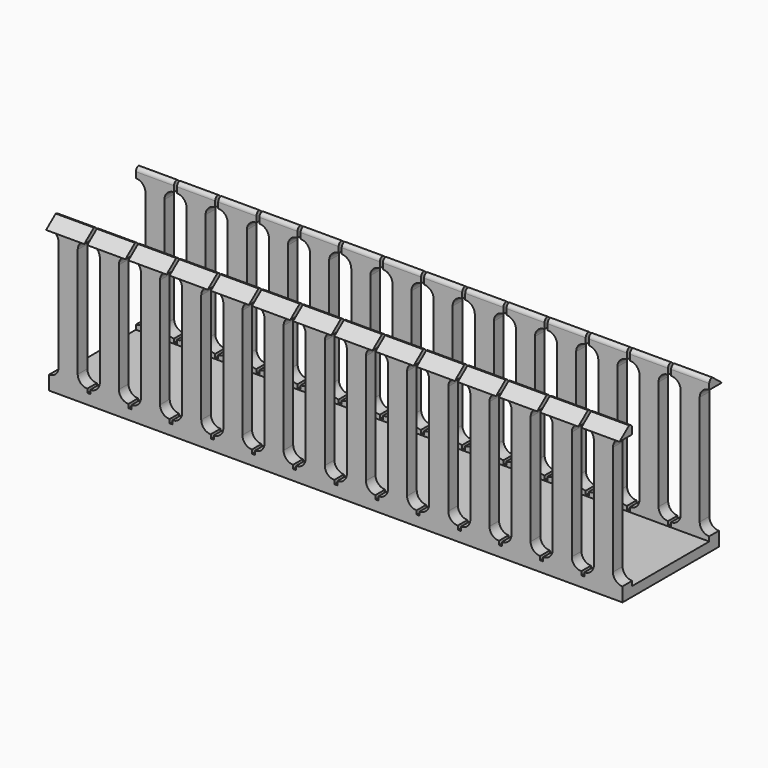
from build123d import *

# Parameters (mm, degrees)
F1_DEPTH  = 21.336
F2_W      = 32.1056
F2_H      = 44.45
F2_H_2    = 3.175
F3_DEPTH  = 191.009
F5_R      = 1.27
F6_R      = 1.27
F7_W      = 1.27
F7_H      = 47.625
F8_DEPTH  = 187.834
F9_W      = 1.27
F9_H      = 47.625
F10_DEPTH = 3.176
F12_DEPTH = 191.009


with BuildPart() as f1:
    # F0 (on Front) → F1 (new body, symmetric)
    with BuildSketch(Plane.XZ):
        with BuildLine():
            Line((-95.504, 4.699), (-95.504, 0))
            Line((-95.504, 0), (95.504, 0))
            Line((95.504, 0), (95.504, 4.699))
            ThreePointArc((95.504, 4.699), (93.2589359697, 5.6289359697), (92.329, 7.874))
            Line((92.329, 7.874), (92.329, 44.45))
            ThreePointArc((92.329, 44.45), (93.2589359697, 46.6950640303), (95.504, 47.625))
            Line((95.504, 47.625), (95.504, 50.8))
            Line((95.504, 50.8), (82.804, 50.8))
            Line((82.804, 50.8), (82.804, 47.625))
            ThreePointArc((82.804, 47.625), (85.0490640303, 46.6950640303), (85.979, 44.45))
            Line((85.979, 44.45), (85.979, 7.874))
            ThreePointArc((85.979, 7.874), (85.0490640303, 5.6289359697), (82.804, 4.699))
            Line((82.804, 4.699), (82.804, 3.429))
            Line((82.804, 3.429), (81.788, 3.429))
            Line((81.788, 3.429), (81.788, 4.699))
            ThreePointArc((81.788, 4.699), (79.5429359697, 5.6289359697), (78.613, 7.874))
            Line((78.613, 7.874), (78.613, 44.45))
            ThreePointArc((78.613, 44.45), (79.5429359697, 46.6950640303), (81.788, 47.625))
            Line((81.788, 47.625), (81.788, 50.8))
            Line((81.788, 50.8), (69.088, 50.8))
            Line((69.088, 50.8), (69.088, 47.625))
            ThreePointArc((69.088, 47.625), (71.3330640303, 46.6950640303), (72.263, 44.45))
            Line((72.263, 44.45), (72.263, 7.874))
            ThreePointArc((72.263, 7.874), (71.3330640303, 5.6289359697), (69.088, 4.699))
            Line((69.088, 4.699), (69.088, 3.429))
            Line((69.088, 3.429), (68.072, 3.429))
            Line((68.072, 3.429), (68.072, 4.699))
            ThreePointArc((68.072, 4.699), (65.8269359697, 5.6289359697), (64.897, 7.874))
            Line((64.897, 7.874), (64.897, 44.45))
            ThreePointArc((64.897, 44.45), (65.8269359697, 46.6950640303), (68.072, 47.625))
            Line((68.072, 47.625), (68.072, 50.8))
            Line((68.072, 50.8), (55.372, 50.8))
            Line((55.372, 50.8), (55.372, 47.625))
            ThreePointArc((55.372, 47.625), (57.6170640303, 46.6950640303), (58.547, 44.45))
            Line((58.547, 44.45), (58.547, 7.874))
            ThreePointArc((58.547, 7.874), (57.6170640303, 5.6289359697), (55.372, 4.699))
            Line((55.372, 4.699), (55.372, 3.429))
            Line((55.372, 3.429), (54.356, 3.429))
            Line((54.356, 3.429), (54.356, 4.699))
            ThreePointArc((54.356, 4.699), (52.1109359697, 5.6289359697), (51.181, 7.874))
            Line((51.181, 7.874), (51.181, 44.45))
            ThreePointArc((51.181, 44.45), (52.1109359697, 46.6950640303), (54.356, 47.625))
            Line((54.356, 47.625), (54.356, 50.8))
            Line((54.356, 50.8), (48.006, 50.8))
            Line((48.006, 50.8), (41.656, 50.8))
            Line((41.656, 50.8), (41.656, 47.625))
            ThreePointArc((41.656, 47.625), (43.9010640303, 46.6950640303), (44.831, 44.45))
            Line((44.831, 44.45), (44.831, 7.874))
            ThreePointArc((44.831, 7.874), (43.9010640303, 5.6289359697), (41.656, 4.699))
            Line((41.656, 4.699), (41.656, 3.429))
            Line((41.656, 3.429), (40.64, 3.429))
            Line((40.64, 3.429), (40.64, 4.699))
            ThreePointArc((40.64, 4.699), (38.3949359697, 5.6289359697), (37.465, 7.874))
            Line((37.465, 7.874), (37.465, 44.45))
            ThreePointArc((37.465, 44.45), (38.3949359697, 46.6950640303), (40.64, 47.625))
            Line((40.64, 47.625), (40.64, 50.8))
            Line((40.64, 50.8), (34.29, 50.8))
            Line((34.29, 50.8), (27.94, 50.8))
            Line((27.94, 50.8), (27.94, 47.625))
            ThreePointArc((27.94, 47.625), (30.1850640303, 46.6950640303), (31.115, 44.45))
            Line((31.115, 44.45), (31.115, 7.874))
            ThreePointArc((31.115, 7.874), (30.1850640303, 5.6289359697), (27.94, 4.699))
            Line((27.94, 4.699), (27.94, 3.429))
            Line((27.94, 3.429), (26.924, 3.429))
            Line((26.924, 3.429), (26.924, 4.699))
            ThreePointArc((26.924, 4.699), (24.6789359697, 5.6289359697), (23.749, 7.874))
            Line((23.749, 7.874), (23.749, 44.45))
            ThreePointArc((23.749, 44.45), (24.6789359697, 46.6950640303), (26.924, 47.625))
            Line((26.924, 47.625), (26.924, 50.8))
            Line((26.924, 50.8), (14.224, 50.8))
            Line((14.224, 50.8), (14.224, 47.625))
            ThreePointArc((14.224, 47.625), (16.4690640303, 46.6950640303), (17.399, 44.45))
            Line((17.399, 44.45), (17.399, 7.874))
            ThreePointArc((17.399, 7.874), (16.4690640303, 5.6289359697), (14.224, 4.699))
            Line((14.224, 4.699), (14.224, 3.429))
            Line((14.224, 3.429), (13.208, 3.429))
            Line((13.208, 3.429), (13.208, 4.699))
            ThreePointArc((13.208, 4.699), (10.9629359697, 5.6289359697), (10.033, 7.874))
            Line((10.033, 7.874), (10.033, 44.45))
            ThreePointArc((10.033, 44.45), (10.9629359697, 46.6950640303), (13.208, 47.625))
            Line((13.208, 47.625), (13.208, 50.8))
            Line((13.208, 50.8), (0.508, 50.8))
            Line((0.508, 50.8), (0.508, 47.625))
            ThreePointArc((0.508, 47.625), (2.7530640303, 46.6950640303), (3.683, 44.45))
            Line((3.683, 44.45), (3.683, 7.874))
            ThreePointArc((3.683, 7.874), (2.7530640303, 5.6289359697), (0.508, 4.699))
            Line((0.508, 4.699), (0.508, 3.429))
            Line((0.508, 3.429), (-0.508, 3.429))
            Line((-0.508, 3.429), (-0.508, 4.699))
            ThreePointArc((-0.508, 4.699), (-2.7530640303, 5.6289359697), (-3.683, 7.874))
            Line((-3.683, 7.874), (-3.683, 44.45))
            ThreePointArc((-3.683, 44.45), (-2.7530640303, 46.6950640303), (-0.508, 47.625))
            Line((-0.508, 47.625), (-0.508, 50.8))
            Line((-0.508, 50.8), (-13.208, 50.8))
            Line((-13.208, 50.8), (-13.208, 47.625))
            ThreePointArc((-13.208, 47.625), (-10.9629359697, 46.6950640303), (-10.033, 44.45))
            Line((-10.033, 44.45), (-10.033, 7.874))
            ThreePointArc((-10.033, 7.874), (-10.9629359697, 5.6289359697), (-13.208, 4.699))
            Line((-13.208, 4.699), (-13.208, 3.429))
            Line((-13.208, 3.429), (-14.224, 3.429))
            Line((-14.224, 3.429), (-14.224, 4.699))
            ThreePointArc((-14.224, 4.699), (-16.4690640303, 5.6289359697), (-17.399, 7.874))
            Line((-17.399, 7.874), (-17.399, 44.45))
            ThreePointArc((-17.399, 44.45), (-16.4690640303, 46.6950640303), (-14.224, 47.625))
            Line((-14.224, 47.625), (-14.224, 50.8))
            Line((-14.224, 50.8), (-26.924, 50.8))
            Line((-26.924, 50.8), (-26.924, 47.625))
            ThreePointArc((-26.924, 47.625), (-24.6789359697, 46.6950640303), (-23.749, 44.45))
            Line((-23.749, 44.45), (-23.749, 7.874))
            ThreePointArc((-23.749, 7.874), (-24.6789359697, 5.6289359697), (-26.924, 4.699))
            Line((-26.924, 4.699), (-26.924, 3.429))
            Line((-26.924, 3.429), (-27.94, 3.429))
            Line((-27.94, 3.429), (-27.94, 4.699))
            ThreePointArc((-27.94, 4.699), (-30.1850640303, 5.6289359697), (-31.115, 7.874))
            Line((-31.115, 7.874), (-31.115, 44.45))
            ThreePointArc((-31.115, 44.45), (-30.1850640303, 46.6950640303), (-27.94, 47.625))
            Line((-27.94, 47.625), (-27.94, 50.8))
            Line((-27.94, 50.8), (-40.64, 50.8))
            Line((-40.64, 50.8), (-40.64, 47.625))
            ThreePointArc((-40.64, 47.625), (-38.3949359697, 46.6950640303), (-37.465, 44.45))
            Line((-37.465, 44.45), (-37.465, 7.874))
            ThreePointArc((-37.465, 7.874), (-38.3949359697, 5.6289359697), (-40.64, 4.699))
            Line((-40.64, 4.699), (-40.64, 3.429))
            Line((-40.64, 3.429), (-41.656, 3.429))
            Line((-41.656, 3.429), (-41.656, 4.699))
            ThreePointArc((-41.656, 4.699), (-43.9010640303, 5.6289359697), (-44.831, 7.874))
            Line((-44.831, 7.874), (-44.831, 44.45))
            ThreePointArc((-44.831, 44.45), (-43.9010640303, 46.6950640303), (-41.656, 47.625))
            Line((-41.656, 47.625), (-41.656, 50.8))
            Line((-41.656, 50.8), (-48.006, 50.8))
            Line((-48.006, 50.8), (-54.356, 50.8))
            Line((-54.356, 50.8), (-54.356, 47.625))
            ThreePointArc((-54.356, 47.625), (-52.1109359697, 46.6950640303), (-51.181, 44.45))
            Line((-51.181, 44.45), (-51.181, 7.874))
            ThreePointArc((-51.181, 7.874), (-52.1109359697, 5.6289359697), (-54.356, 4.699))
            Line((-54.356, 4.699), (-54.356, 3.429))
            Line((-54.356, 3.429), (-55.372, 3.429))
            Line((-55.372, 3.429), (-55.372, 4.699))
            ThreePointArc((-55.372, 4.699), (-57.6170640303, 5.6289359697), (-58.547, 7.874))
            Line((-58.547, 7.874), (-58.547, 44.45))
            ThreePointArc((-58.547, 44.45), (-57.6170640303, 46.6950640303), (-55.372, 47.625))
            Line((-55.372, 47.625), (-55.372, 50.8))
            Line((-55.372, 50.8), (-68.072, 50.8))
            Line((-68.072, 50.8), (-68.072, 47.625))
            ThreePointArc((-68.072, 47.625), (-65.8269359697, 46.6950640303), (-64.897, 44.45))
            Line((-64.897, 44.45), (-64.897, 7.874))
            ThreePointArc((-64.897, 7.874), (-65.8269359697, 5.6289359697), (-68.072, 4.699))
            Line((-68.072, 4.699), (-68.072, 3.429))
            Line((-68.072, 3.429), (-69.088, 3.429))
            Line((-69.088, 3.429), (-69.088, 4.699))
            ThreePointArc((-69.088, 4.699), (-71.3330640303, 5.6289359697), (-72.263, 7.874))
            Line((-72.263, 7.874), (-72.263, 44.45))
            ThreePointArc((-72.263, 44.45), (-71.3330640303, 46.6950640303), (-69.088, 47.625))
            Line((-69.088, 47.625), (-69.088, 50.8))
            Line((-69.088, 50.8), (-81.788, 50.8))
            Line((-81.788, 50.8), (-81.788, 47.625))
            ThreePointArc((-81.788, 47.625), (-79.5429359697, 46.6950640303), (-78.613, 44.45))
            Line((-78.613, 44.45), (-78.613, 7.874))
            ThreePointArc((-78.613, 7.874), (-79.5429359697, 5.6289359697), (-81.788, 4.699))
            Line((-81.788, 4.699), (-81.788, 3.429))
            Line((-81.788, 3.429), (-82.804, 3.429))
            Line((-82.804, 3.429), (-82.804, 4.699))
            ThreePointArc((-82.804, 4.699), (-85.0490640303, 5.6289359697), (-85.979, 7.874))
            Line((-85.979, 7.874), (-85.979, 44.45))
            ThreePointArc((-85.979, 44.45), (-85.0490640303, 46.6950640303), (-82.804, 47.625))
            Line((-82.804, 47.625), (-82.804, 50.8))
            Line((-82.804, 50.8), (-95.504, 50.8))
            Line((-95.504, 50.8), (-95.504, 47.625))
            ThreePointArc((-95.504, 47.625), (-93.2589359697, 46.6950640303), (-92.329, 44.45))
            Line((-92.329, 44.45), (-92.329, 7.874))
            ThreePointArc((-92.329, 7.874), (-93.2589359697, 5.6289359697), (-95.504, 4.699))
        make_face()
    extrude(amount=F1_DEPTH, both=True)

    # F2 (on face) → F3 (cut, through all)
    with BuildSketch(Plane.YZ.offset(95.504)):
        with Locations((0, 25.4)):
            Rectangle(F2_W, F2_H)
        with Locations((0, 49.2125)):
            Rectangle(F2_W, F2_H_2)
    extrude(amount=-F3_DEPTH, mode=Mode.SUBTRACT)

    # F5
    f5_edges = [f1.edges().sort_by_distance(p)[0] for p in [
        (-89.154, 16.0528, 50.8),
        (-75.438, 16.0528, 50.8),
        (-61.722, 16.0528, 50.8),
        (-48.006, 16.0528, 50.8),
        (-34.29, 16.0528, 50.8),
        (-6.858, 16.0528, 50.8),
        (6.858, 16.0528, 50.8),
        (20.574, 16.0528, 50.8),
        (34.29, 16.0528, 50.8),
        (48.006, 16.0528, 50.8),
        (61.722, 16.0528, 50.8),
        (75.438, 16.0528, 50.8),
        (89.154, 16.0528, 50.8),
        (-20.574, 16.0528, 50.8),
    ]]
    fillet(f5_edges, radius=F5_R)

    # F6
    f6_edges = [f1.edges().sort_by_distance(p)[0] for p in [
        (-89.154, -16.0528, 50.8),
        (89.154, -16.0528, 50.8),
        (75.438, -16.0528, 50.8),
        (61.722, -16.0528, 50.8),
        (48.006, -16.0528, 50.8),
        (34.29, -16.0528, 50.8),
        (20.574, -16.0528, 50.8),
        (6.858, -16.0528, 50.8),
        (-6.858, -16.0528, 50.8),
        (-20.574, -16.0528, 50.8),
        (-34.29, -16.0528, 50.8),
        (-48.006, -16.0528, 50.8),
        (-61.722, -16.0528, 50.8),
        (-75.438, -16.0528, 50.8),
    ]]
    fillet(f6_edges, radius=F6_R)

    # F7 (on face) → F8 (cut, through all)
    with BuildSketch(Plane.YZ.offset(92.329)):
        with Locations((20.701, 23.8125)):
            Rectangle(F7_W, F7_H)
        with Locations((-20.701, 23.8125)):
            Rectangle(F7_W, F7_H)
    extrude(amount=-F8_DEPTH, mode=Mode.SUBTRACT)

    # F9 (on face) → F10 (cut, through all)
    with BuildSketch(Plane(origin=(92.329, 0, 0), x_dir=(0, -1, 0), z_dir=(-1, 0, 0))):
        with Locations((20.701, 23.8125)):
            Rectangle(F9_W, F9_H)
        with Locations((-20.701, 23.8125)):
            Rectangle(F9_W, F9_H)
    extrude(amount=-F10_DEPTH, mode=Mode.SUBTRACT)

    # F11 (on face) → F12 (cut, through all)
    with BuildSketch(Plane.YZ.offset(95.504)):
        Polygon((17.3228, 50.8), (21.336, 47.625), (21.336, 50.8), align=None)
        Polygon((-21.336, 47.625), (-17.3228, 50.8), (-21.336, 50.8), align=None)
    extrude(amount=-F12_DEPTH, mode=Mode.SUBTRACT)


solid = f1.part
